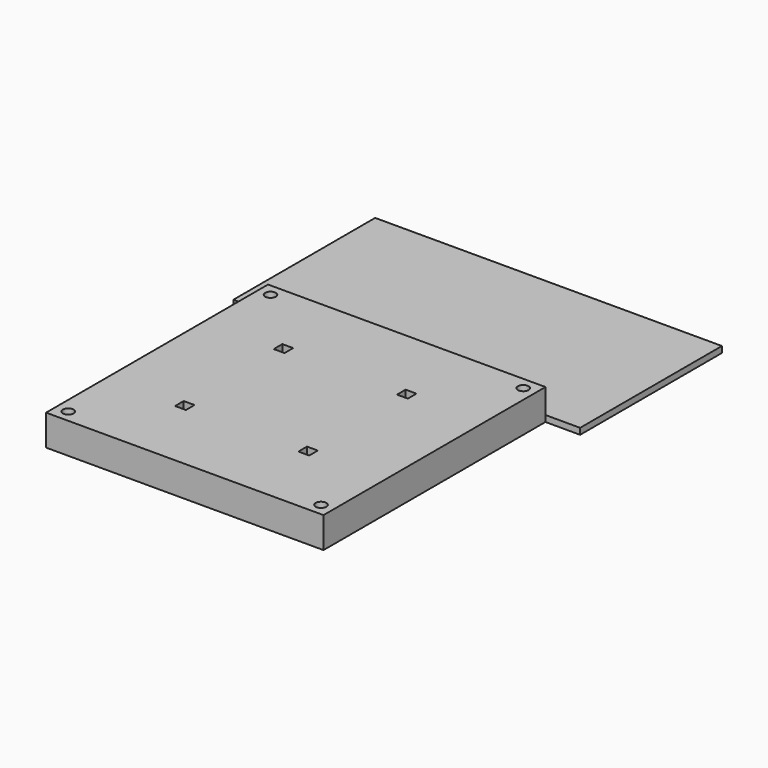
from build123d import *

# Parameters (mm, degrees)
F0_R     = 1.725
F0_W     = 3.5
F0_H     = 3.5
F1_DEPTH = 10
F3_DEPTH = 2


with BuildPart() as f1:
    # F0 (on Top) → F1 (new body)
    with BuildSketch(Plane.XY):
        Polygon((45, -45), (45, 0), (45, 45), (0, 45), (-45, 45), (-45, 0), (-45, -45), (0, -45), align=None)
        with Locations((-41, -41)):
            Circle(F0_R, mode=Mode.SUBTRACT)
        with Locations((-20, -20)):
            Rectangle(F0_W, F0_H, mode=Mode.SUBTRACT)
        with Locations((41, -41)):
            Circle(F0_R, mode=Mode.SUBTRACT)
        with Locations((20, -20)):
            Rectangle(F0_W, F0_H, mode=Mode.SUBTRACT)
        with Locations((-20, 20)):
            Rectangle(F0_W, F0_H, mode=Mode.SUBTRACT)
        with Locations((-41, 41)):
            Circle(F0_R, mode=Mode.SUBTRACT)
        with Locations((20, 20)):
            Rectangle(F0_W, F0_H, mode=Mode.SUBTRACT)
        with Locations((41, 41)):
            Circle(F0_R, mode=Mode.SUBTRACT)
    extrude(amount=F1_DEPTH)

    # F2 (on Top) → F3 (join)
    with BuildSketch(Plane.XY):
        Polygon((45, 102.5), (-45, 102.5), (-56.25, 102.5), (-56.25, 45), (56.25, 45), (56.25, 102.5), align=None)
    extrude(amount=F3_DEPTH)


solid = f1.part
